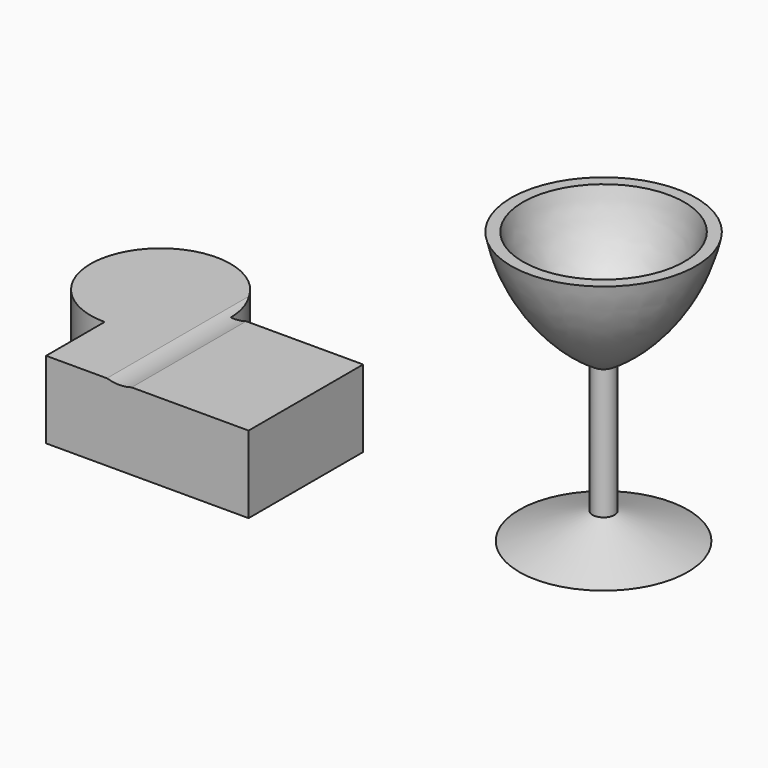
from build123d import *

# Parameters (mm, degrees)
F3_DEPTH = 43.18
F4_R     = 23.6600255422
F5_DEPTH = 198.12


with BuildPart() as f1:
    # F0 (on Front) → F1 (revolve)
    with BuildSketch(Plane.XZ):
        with BuildLine():
            Line((-171.3695186251, -75.5041107695), (-124.186059868, -75.5041107695))
            Line((-124.186059868, -75.5041107695), (-124.186059868, 16.0320485777))
            ThreePointArc((-124.186059868, 16.0320485777), (-153.1499751292, 41.670309623), (-169.3749281483, 76.7841205271))
            Line((-169.3749281483, 76.7841205271), (-175.9284700741, 76.7841205271))
            ThreePointArc((-175.9284700741, 76.7841205271), (-159.7346839442, 39.8546698346), (-130.3438502425, 12.2466649811))
            Line((-130.3438502425, 12.2466649811), (-130.3438502425, -60.7368963593))
            Line((-130.3438502425, -60.7368963593), (-171.3695186251, -75.5041107695))
        make_face()
    revolve(axis=Axis((-124.186059868, 0, -29.7360310959), (0, 0, 1)))


with BuildPart() as f3:
    # F2 (on face) → F3 (new body)
    with BuildSketch(Plane(origin=(0, 0, -75.5041107695), x_dir=(1, 0, 0), z_dir=(0, 0, -1))):
        with BuildLine():
            Line((-372.190207243, 39.1865656481), (-372.190207243, 0))
            Line((-372.190207243, 0), (-333.0036415949, 0))
            ThreePointArc((-333.0036415949, 0), (-344.4811209418, 27.7090863012), (-372.190207243, 39.1865656481))
        make_face()
        with BuildLine():
            Line((-333.0036415949, 0), (-372.190207243, 0))
            Line((-372.190207243, 0), (-372.190207243, 39.1865656481))
            ThreePointArc((-372.190207243, 39.1865656481), (-399.8992935441, -27.7090863012), (-333.0036415949, 0))
        make_face()
        with BuildLine():
            ThreePointArc((-372.190207243, 39.1865656481), (-344.4811209418, 27.7090863012), (-333.0036415949, 0))
            Line((-333.0036415949, 0), (-258.8019967079, 0))
            Line((-258.8019967079, 0), (-258.8019967079, 80.160908401))
            Line((-258.8019967079, 80.160908401), (-372.190207243, 80.160908401))
            Line((-372.190207243, 80.160908401), (-372.190207243, 39.1865656481))
        make_face()
    extrude(amount=-F3_DEPTH)

    # F4 (on face) → F5 (cut)
    with BuildSketch(Plane.XZ.offset(80.160908401)):
        with Locations((-331.190764904, -9.700011462)):
            Circle(F4_R)
    extrude(amount=-F5_DEPTH, mode=Mode.SUBTRACT)


solid = Compound([f1.part, f3.part])
